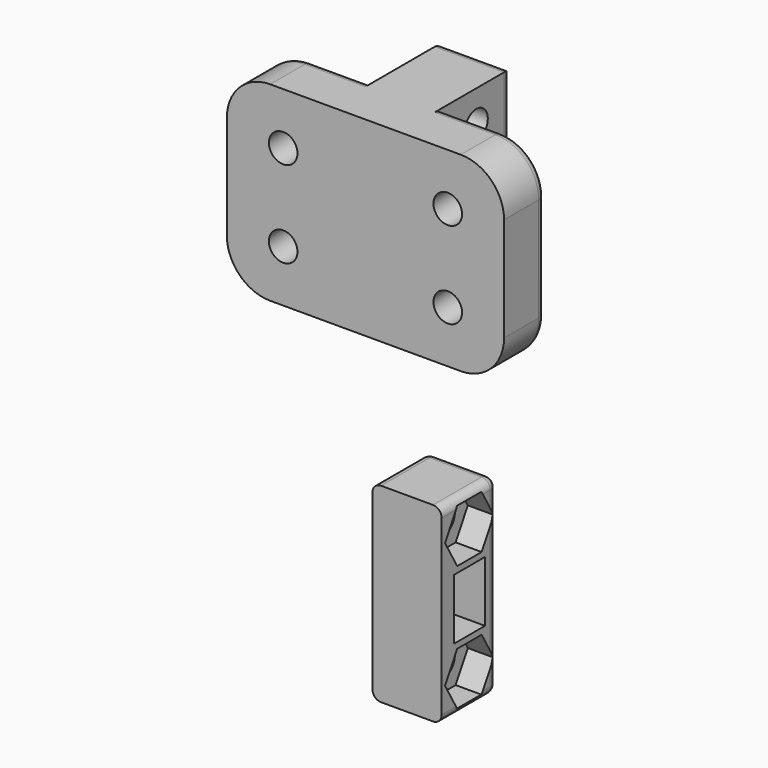
from build123d import *

# Parameters (mm, degrees)
F1_DEPTH       = 6
F2_DEPTH       = 10
F3_DEPTH       = 6
F4_D           = 3.3
F4_CSINK_D     = 6.72
F4_CSINK_ANGLE = 90
F5_R           = 5
F6_R           = 1
F7_W           = 2.25
F7_H           = 3.5
F8_DEPTH       = 25
F9_D           = 3.3
F10_R          = 1
F11_W          = 8
F11_H          = 22
F12_DEPTH      = 8
F14_D          = 3.3
F13_W          = 2.25
F13_H          = 3.5
F15_DEPTH      = 25
F16_R          = 1
F17_DEPTH      = 3


with BuildPart() as f1:
    # F0 (on Front) → F1 (new body)
    with BuildSketch(Plane.XZ):
        Polygon((-16, 11), (-16, -11), (-4, -11), (-4, 0), (-4, 11), align=None)
        with BuildLine():
            ThreePointArc((-7.4, -5), (-10.9849242405, -6.4849242405), (-9.5, -2.9))
            ThreePointArc((-9.5, -2.9), (-8.0150757595, -3.5150757595), (-7.4, -5))
        make_face(mode=Mode.SUBTRACT)
        with BuildLine():
            ThreePointArc((-7.4, 5), (-8.0150757595, 3.5150757595), (-9.5, 2.9))
            ThreePointArc((-9.5, 2.9), (-10.9849242405, 6.4849242405), (-7.4, 5))
        make_face(mode=Mode.SUBTRACT)
        with BuildLine():
            ThreePointArc((-7.4, 5), (-10.9849242405, 6.4849242405), (-9.5, 2.9))
            ThreePointArc((-9.5, 2.9), (-8.0150757595, 3.5150757595), (-7.4, 5))
        make_face()
        with BuildLine():
            ThreePointArc((-7.4, -5), (-8.0150757595, -3.5150757595), (-9.5, -2.9))
            ThreePointArc((-9.5, -2.9), (-10.9849242405, -6.4849242405), (-7.4, -5))
        make_face()
    extrude(amount=F1_DEPTH)



with BuildPart() as f1b:
    # F0 (on Front) → F1, piece 2 (new body)
    with BuildSketch(Plane.XZ):
        Polygon((4, 0), (4, -11), (16, -11), (16, 11), (4, 11), align=None)
        with BuildLine():
            ThreePointArc((11.6, -5), (8.0150757595, -6.4849242405), (9.5, -2.9))
            ThreePointArc((9.5, -2.9), (10.9849242405, -3.5150757595), (11.6, -5))
        make_face(mode=Mode.SUBTRACT)
        with BuildLine():
            ThreePointArc((11.6, 5), (10.9849242405, 3.5150757595), (9.5, 2.9))
            ThreePointArc((9.5, 2.9), (8.0150757595, 6.4849242405), (11.6, 5))
        make_face(mode=Mode.SUBTRACT)
        with BuildLine():
            ThreePointArc((11.6, 5), (8.0150757595, 6.4849242405), (9.5, 2.9))
            ThreePointArc((9.5, 2.9), (10.9849242405, 3.5150757595), (11.6, 5))
        make_face()
        with BuildLine():
            ThreePointArc((11.6, -5), (10.9849242405, -3.5150757595), (9.5, -2.9))
            ThreePointArc((9.5, -2.9), (8.0150757595, -6.4849242405), (11.6, -5))
        make_face()
    extrude(amount=F1_DEPTH)


with BuildPart() as f1_1:
    add(f1.part)

    add(f1b.part)  # F2 merges F1b
    # F0 (on Front) → F2 (join)
    with BuildSketch(Plane.XZ):
        Polygon((-4, 0), (-4, -11), (4, -11), (4, 0), (4, 11), (-4, 11), align=None)
    extrude(amount=-F2_DEPTH)

    # F0 (on Front) → F3 (join)
    with BuildSketch(Plane.XZ):
        Polygon((-4, 0), (-4, -11), (4, -11), (4, 0), (4, 11), (-4, 11), align=None)
    extrude(amount=F3_DEPTH)

    # F4 (through all)
    with Locations(Plane(origin=(0, 0, 0), x_dir=(1, 0, 0), z_dir=(0, 1, 0))):
        with Locations((9.5, -5), (9.5, 5), (-9.5, -5), (-9.5, 5)):
            CounterSinkHole(F4_D / 2, F4_CSINK_D / 2, counter_sink_angle=F4_CSINK_ANGLE)

    # F5
    f5_edges = [f1_1.edges().sort_by_distance(p)[0] for p in [
        (-16, -3, 11),
        (-16, -3, -11),
        (16, -3, 11),
        (16, -3, -11),
    ]]
    fillet(f5_edges, radius=F5_R)

    # F6
    f6_edges = [f1_1.edges().sort_by_distance(p)[0] for p in [
        (-7.5, 0, 11),
        (14.535534, 0, 9.535534),
    ]]
    fillet(f6_edges, radius=F6_R)

    # F7 (on face) → F8 (cut)
    with BuildSketch(Plane.YZ.offset(4)):
        with Locations((6.125, 1.75)):
            Rectangle(F7_W, F7_H)
        with Locations((6.125, -1.75)):
            Rectangle(F7_W, F7_H)
        Polygon((5, 0), (5, 3.5), (2.75, 3.5), (2.75, 0), (2.75, -3.5), (5, -3.5), align=None)
    extrude(amount=-F8_DEPTH, mode=Mode.SUBTRACT)

    # F9 (through all)
    with Locations(Plane.YZ.offset(4)):
        with Locations((5, 7.25), (5, -7.25)):
            Hole(F9_D / 2)

    # F10
    f10_edges = [f1_1.edges().sort_by_distance(p)[0] for p in [
        (4, 10, 0),
        (0, 10, 11),
        (-4, 10, 0),
        (0, 10, -11),
    ]]
    fillet(f10_edges, radius=F10_R)


with BuildPart() as f12:
    # F11 (on Front) → F12 (new body)
    with BuildSketch(Plane.XZ):
        with Locations((0, -40.6370076567)):
            Rectangle(F11_W, F11_H)
    extrude(amount=-F12_DEPTH)

    # F14 (through all)
    with Locations(Plane.YZ.offset(4)):
        with Locations((4, -33.3870076567), (4, -47.8870076567)):
            Hole(F14_D / 2)

    # F13 (on face) → F15 (cut)
    with BuildSketch(Plane.YZ.offset(4)):
        Polygon((4, -40.6370076567), (4, -37.1370076567), (1.75, -37.1370076567), (1.75, -40.6370076567), (1.75, -44.1370076567), (4, -44.1370076567), align=None)
        with Locations((5.125, -42.3870076567)):
            Rectangle(F13_W, F13_H)
        with Locations((5.125, -38.8870076567)):
            Rectangle(F13_W, F13_H)
    extrude(amount=-F15_DEPTH, mode=Mode.SUBTRACT)

    # F16
    f16_edges = [f12.edges().sort_by_distance(p)[0] for p in [
        (4, 4, -29.637008),
        (-4, 4, -29.637008),
        (4, 4, -51.637008),
        (0, 8, -51.637008),
        (4, 8, -40.637008),
        (0, 8, -29.637008),
        (-4, 8, -40.637008),
        (-4, 4, -51.637008),
    ]]
    fillet(f16_edges, radius=F16_R)

    # F13 (on face) → F17 (cut)
    with BuildSketch(Plane.YZ.offset(4)):
        Polygon((4, -30.3370076567), (4, -36.4370076567), (5.760918321, -36.4370076567), (7.5218366421, -33.3870076567), (5.760918321, -30.3370076567), align=None)
        Polygon((2.239081679, -36.4370076567), (4, -36.4370076567), (4, -30.3370076567), (2.239081679, -30.3370076567), (0.4781633579, -33.3870076567), align=None)
        Polygon((5.760918321, -44.8370076567), (4, -44.8370076567), (4, -50.9370076567), (5.760918321, -50.9370076567), (7.5218366421, -47.8870076567), align=None)
        Polygon((4, -50.9370076567), (4, -44.8370076567), (2.239081679, -44.8370076567), (0.4781633579, -47.8870076567), (2.239081679, -50.9370076567), align=None)
    extrude(amount=-F17_DEPTH, mode=Mode.SUBTRACT)


solid = Compound([f1_1.part, f12.part])
